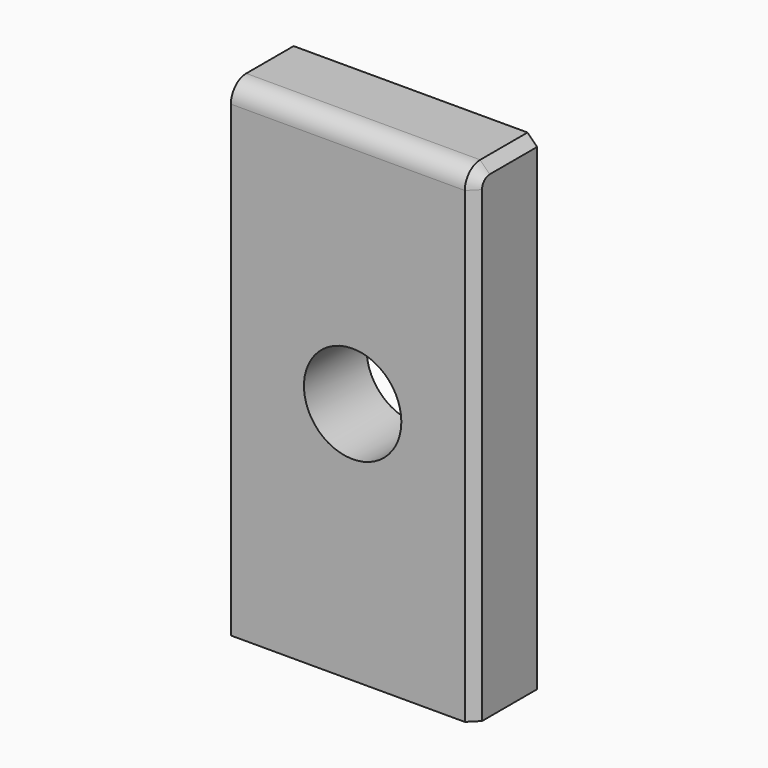
from build123d import *

# Parameters (mm, degrees)
F0_W     = 127
F0_H     = 254
F0_R     = 25.4
F1_DEPTH = 40.894
F2_R     = 10
F3_SIZE  = 5


with BuildPart() as f1:
    # F0 (on Front) → F1 (new body)
    with BuildSketch(Plane.XZ):
        Rectangle(F0_W, F0_H)
        Circle(F0_R, mode=Mode.SUBTRACT)
    extrude(amount=F1_DEPTH)

    # F2
    f2_edges = [f1.edges().sort_by_distance(p)[0] for p in [
        (0, -40.894, 127),
    ]]
    fillet(f2_edges, radius=F2_R)

    # F3
    f3_edges = [f1.edges().sort_by_distance(p)[0] for p in [
        (63.5, -40.894, -5),
    ]]
    chamfer(f3_edges, length=F3_SIZE)


solid = f1.part
